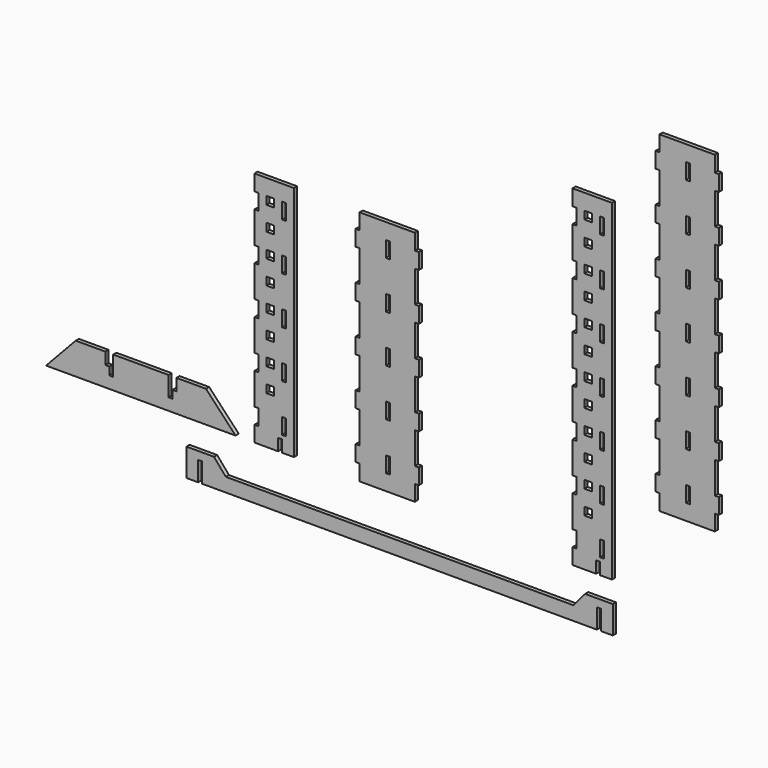
from build123d import *

# Parameters (mm, degrees)
F0_W      = 6.35
F0_H      = 25.4
F1_DEPTH  = 6.35
F2_W      = 12.7
F2_H      = 12.7
F2_W_2    = 6.35
F2_H_2    = 25.4
F3_DEPTH  = 6.35
F5_DEPTH  = 6.35
F7_DEPTH  = 6.35
F8_W      = 6.35
F8_H      = 25.4
F9_DEPTH  = 6.35
F10_W     = 12.7
F10_H     = 12.7
F10_W_2   = 6.35
F10_H_2   = 25.4
F11_DEPTH = 6.35


with BuildPart() as f1:
    # F0 (on Front) → F1 (new body)
    with BuildSketch(Plane.XZ):
        Polygon((49.611357, 355.6), (43.261357, 355.6), (43.261357, 381), (-45.638643, 381), (-45.638643, 355.6), (-51.988643, 355.6), (-51.988643, 330.2), (-45.638643, 330.2), (-45.638643, 279.4), (-51.988643, 279.4), (-51.988643, 254), (-45.638643, 254), (-45.638643, 203.2), (-51.988643, 203.2), (-51.988643, 177.8), (-45.638643, 177.8), (-45.638643, 127), (-51.988643, 127), (-51.988643, 101.6), (-45.638643, 101.6), (-45.638643, 50.8), (-51.988643, 50.8), (-51.988643, 25.4), (-45.638643, 25.4), (-45.638643, 0), (43.261357, 0), (43.261357, 25.4), (49.611357, 25.4), (49.611357, 50.8), (43.261357, 50.8), (43.261357, 101.6), (49.611357, 101.6), (49.611357, 127), (43.261357, 127), (43.261357, 177.8), (49.611357, 177.8), (49.611357, 203.2), (43.261357, 203.2), (43.261357, 254), (49.611357, 254), (49.611357, 279.4), (43.261357, 279.4), (43.261357, 330.2), (49.611357, 330.2), align=None)
        with Locations((-0.188121, 38.099999)):
            Rectangle(F0_W, F0_H, mode=Mode.SUBTRACT)
        with Locations((-0.188121, 114.299999)):
            Rectangle(F0_W, F0_H, mode=Mode.SUBTRACT)
        with Locations((-0.188121, 190.499999)):
            Rectangle(F0_W, F0_H, mode=Mode.SUBTRACT)
        with Locations((-0.188121, 266.699999)):
            Rectangle(F0_W, F0_H, mode=Mode.SUBTRACT)
        with Locations((-0.188121, 342.899999)):
            Rectangle(F0_W, F0_H, mode=Mode.SUBTRACT)
    extrude(amount=F1_DEPTH)


with BuildPart() as f3:
    # F2 (on Front) → F3 (new body)
    with BuildSketch(Plane.XZ):
        Polygon((-151.198792, 0), (-151.198792, 381), (-214.698792, 381), (-214.698792, 355.6), (-208.348792, 355.6), (-208.348792, 330.2), (-214.698792, 330.2), (-214.698792, 279.4), (-208.348792, 279.4), (-208.348792, 254), (-214.698792, 254), (-214.698792, 203.2), (-208.348792, 203.2), (-208.348792, 177.8), (-214.698792, 177.8), (-214.698792, 127), (-208.348792, 127), (-208.348792, 101.6), (-214.698792, 101.6), (-214.698792, 50.8), (-208.348792, 50.8), (-208.348792, 25.4), (-214.698792, 25.4), (-214.698792, 0), (-182.948792, 0), (-176.598792, 0), (-176.598792, 19.05), (-170.248792, 19.05), (-170.248792, 0), align=None)
        with Locations((-189.298792, 82.55)):
            Rectangle(F2_W, F2_H, mode=Mode.SUBTRACT)
        with Locations((-189.298789, 120.65)):
            Rectangle(F2_W, F2_H, mode=Mode.SUBTRACT)
        with Locations((-189.298789, 158.75)):
            Rectangle(F2_W, F2_H, mode=Mode.SUBTRACT)
        with Locations((-167.073792, 38.1)):
            Rectangle(F2_W_2, F2_H_2, mode=Mode.SUBTRACT)
        with Locations((-167.073792, 114.3)):
            Rectangle(F2_W_2, F2_H_2, mode=Mode.SUBTRACT)
        with Locations((-189.298789, 196.85)):
            Rectangle(F2_W, F2_H, mode=Mode.SUBTRACT)
        with Locations((-189.298789, 234.95)):
            Rectangle(F2_W, F2_H, mode=Mode.SUBTRACT)
        with Locations((-189.298789, 273.05)):
            Rectangle(F2_W, F2_H, mode=Mode.SUBTRACT)
        with Locations((-189.298789, 311.15)):
            Rectangle(F2_W, F2_H, mode=Mode.SUBTRACT)
        with Locations((-189.298789, 349.25)):
            Rectangle(F2_W, F2_H, mode=Mode.SUBTRACT)
        with Locations((-167.073792, 190.5)):
            Rectangle(F2_W_2, F2_H_2, mode=Mode.SUBTRACT)
        with Locations((-167.073792, 266.7)):
            Rectangle(F2_W_2, F2_H_2, mode=Mode.SUBTRACT)
        with Locations((-167.073792, 342.9)):
            Rectangle(F2_W_2, F2_H_2, mode=Mode.SUBTRACT)
    extrude(amount=F3_DEPTH)


with BuildPart() as f5:
    # F4 (on Front) → F5 (new body)
    with BuildSketch(Plane.XZ):
        Polygon((-549.836099, 0), (-245.036099, 0), (-292.661099, 50.8), (-340.286099, 50.8), (-340.286099, 31.75), (-346.636099, 31.75), (-346.636099, 19.05), (-352.986099, 19.05), (-352.986099, 50.8), (-441.886099, 50.8), (-441.886099, 19.05), (-448.236099, 19.05), (-448.236099, 31.75), (-454.586099, 31.75), (-454.586099, 50.8), (-502.211099, 50.8), align=None)
    extrude(amount=F5_DEPTH)


with BuildPart() as f7:
    # F6 (on Front) → F7 (new body)
    with BuildSketch(Plane.XZ):
        Polygon((-324.253956, -41.28249), (-324.253956, -85.73249), (-305.203956, -85.73249), (-305.203956, -53.98249), (-298.853956, -53.98249), (-298.853956, -85.73249), (336.146044, -85.73249), (336.146044, -53.98249), (342.496044, -53.98249), (342.496044, -85.73249), (361.546044, -85.73249), (361.546044, -41.28249), (317.096044, -41.28249), (298.046044, -63.50749), (-260.753956, -63.50749), (-279.803956, -41.28249), align=None)
    extrude(amount=F7_DEPTH)


with BuildPart() as f9:
    # F8 (on Front) → F9 (new body)
    with BuildSketch(Plane.XZ):
        Polygon((532.007423, 470.483176), (525.657423, 470.483176), (525.657423, 521.283176), (532.007423, 521.283176), (532.007423, 546.683176), (525.657423, 546.683176), (525.657423, 597.483176), (532.007423, 597.483176), (532.007423, 622.883176), (525.657423, 622.883176), (525.657423, 648.283176), (436.757423, 648.283176), (436.757423, 622.883176), (430.407423, 622.883176), (430.407423, 597.483176), (436.757423, 597.483176), (436.757423, 546.683176), (430.407423, 546.683176), (430.407423, 521.283176), (436.757423, 521.283176), (436.757423, 470.483176), (430.407423, 470.483176), (430.407423, 445.083176), (436.757423, 445.083176), (436.757423, 394.283176), (430.407423, 394.283176), (430.407423, 368.883176), (436.757423, 368.883176), (436.757423, 318.083176), (430.407423, 318.083176), (430.407423, 292.683176), (436.757423, 292.683176), (436.757423, 241.883176), (430.407423, 241.883176), (430.407423, 216.483176), (436.757423, 216.483176), (436.757423, 165.683176), (430.407423, 165.683176), (430.407423, 140.283176), (436.757423, 140.283176), (436.757423, 114.883176), (525.657423, 114.883176), (525.657423, 140.283176), (532.007423, 140.283176), (532.007423, 165.683176), (525.657423, 165.683176), (525.657423, 216.483176), (532.007423, 216.483176), (532.007423, 241.883176), (525.657423, 241.883176), (525.657423, 292.683176), (532.007423, 292.683176), (532.007423, 318.083176), (525.657423, 318.083176), (525.657423, 368.883176), (532.007423, 368.883176), (532.007423, 394.283176), (525.657423, 394.283176), (525.657423, 445.083176), (532.007423, 445.083176), align=None)
        with Locations((482.207945, 152.983175)):
            Rectangle(F8_W, F8_H, mode=Mode.SUBTRACT)
        with Locations((482.207945, 229.183175)):
            Rectangle(F8_W, F8_H, mode=Mode.SUBTRACT)
        with Locations((482.207945, 305.383175)):
            Rectangle(F8_W, F8_H, mode=Mode.SUBTRACT)
        with Locations((482.207945, 381.583175)):
            Rectangle(F8_W, F8_H, mode=Mode.SUBTRACT)
        with Locations((482.207945, 457.783175)):
            Rectangle(F8_W, F8_H, mode=Mode.SUBTRACT)
        with Locations((482.207945, 533.983175)):
            Rectangle(F8_W, F8_H, mode=Mode.SUBTRACT)
        with Locations((482.207945, 610.183175)):
            Rectangle(F8_W, F8_H, mode=Mode.SUBTRACT)
    extrude(amount=F9_DEPTH)


with BuildPart() as f11:
    # F10 (on Front) → F11 (new body)
    with BuildSketch(Plane.XZ):
        Polygon((303.106115, 43.751162), (303.106115, 18.351162), (296.756115, 18.351162), (296.756115, -7.048838), (328.506115, -7.048838), (334.856115, -7.048838), (334.856115, 12.001162), (341.206115, 12.001162), (341.206115, -7.048838), (360.256115, -7.048838), (360.256115, 526.351162), (296.756115, 526.351162), (296.756115, 500.951162), (303.106115, 500.951162), (303.106115, 475.551162), (296.756115, 475.551162), (296.756115, 424.751162), (303.106115, 424.751162), (303.106115, 399.351162), (296.756115, 399.351162), (296.756115, 348.551162), (303.106115, 348.551162), (303.106115, 323.151162), (296.756115, 323.151162), (296.756115, 272.351162), (303.106115, 272.351162), (303.106115, 246.951162), (296.756115, 246.951162), (296.756115, 196.151162), (303.106115, 196.151162), (303.106115, 170.751162), (296.756115, 170.751162), (296.756115, 119.951162), (303.106115, 119.951162), (303.106115, 94.551162), (296.756115, 94.551162), (296.756115, 43.751162), align=None)
        with Locations((322.156115, 75.501162)):
            Rectangle(F10_W, F10_H, mode=Mode.SUBTRACT)
        with Locations((322.156117, 113.601162)):
            Rectangle(F10_W, F10_H, mode=Mode.SUBTRACT)
        with Locations((322.156117, 151.701162)):
            Rectangle(F10_W, F10_H, mode=Mode.SUBTRACT)
        with Locations((322.156117, 189.801162)):
            Rectangle(F10_W, F10_H, mode=Mode.SUBTRACT)
        with Locations((322.156117, 227.901162)):
            Rectangle(F10_W, F10_H, mode=Mode.SUBTRACT)
        with Locations((344.381115, 31.051162)):
            Rectangle(F10_W_2, F10_H_2, mode=Mode.SUBTRACT)
        with Locations((344.381115, 107.251162)):
            Rectangle(F10_W_2, F10_H_2, mode=Mode.SUBTRACT)
        with Locations((344.381115, 183.451162)):
            Rectangle(F10_W_2, F10_H_2, mode=Mode.SUBTRACT)
        with Locations((322.156117, 266.001162)):
            Rectangle(F10_W, F10_H, mode=Mode.SUBTRACT)
        with Locations((322.156117, 304.101162)):
            Rectangle(F10_W, F10_H, mode=Mode.SUBTRACT)
        with Locations((322.156117, 342.201162)):
            Rectangle(F10_W, F10_H, mode=Mode.SUBTRACT)
        with Locations((322.156117, 380.301162)):
            Rectangle(F10_W, F10_H, mode=Mode.SUBTRACT)
        with Locations((322.156117, 418.401162)):
            Rectangle(F10_W, F10_H, mode=Mode.SUBTRACT)
        with Locations((322.156117, 456.501162)):
            Rectangle(F10_W, F10_H, mode=Mode.SUBTRACT)
        with Locations((322.156117, 494.601162)):
            Rectangle(F10_W, F10_H, mode=Mode.SUBTRACT)
        with Locations((344.381115, 259.651162)):
            Rectangle(F10_W_2, F10_H_2, mode=Mode.SUBTRACT)
        with Locations((344.381115, 335.851162)):
            Rectangle(F10_W_2, F10_H_2, mode=Mode.SUBTRACT)
        with Locations((344.381115, 412.051162)):
            Rectangle(F10_W_2, F10_H_2, mode=Mode.SUBTRACT)
        with Locations((344.381115, 488.251162)):
            Rectangle(F10_W_2, F10_H_2, mode=Mode.SUBTRACT)
    extrude(amount=F11_DEPTH)


solid = Compound([f1.part, f3.part, f5.part, f7.part, f9.part, f11.part])
